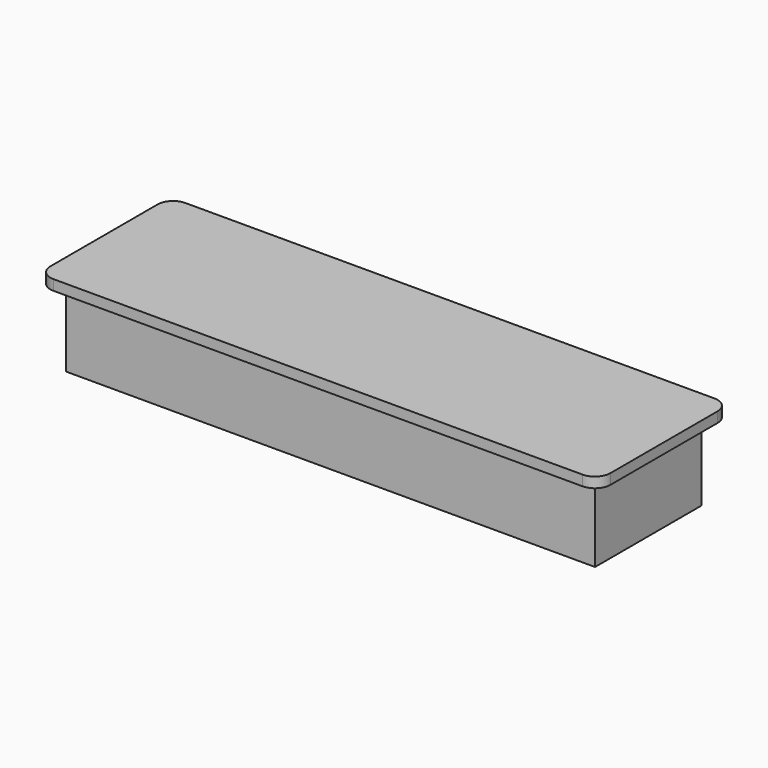
from build123d import *

# Parameters (mm, degrees)
SKETCH_W     = 102.67
SKETCH_H     = 25.87
SKETCH_W_2   = 98.67
SKETCH_H_2   = 21.87
PAD_DEPTH    = 15
PAD001_DEPTH = 2


with BuildPart() as part:
    # Sketch → Pad (new body)
    with BuildSketch(Plane.XY):
        with Locations((51.335, 12.935)):
            Rectangle(SKETCH_W, SKETCH_H)
        with Locations((51.335, 12.935)):
            Rectangle(SKETCH_W_2, SKETCH_H_2, mode=Mode.SUBTRACT)
    extrude(amount=PAD_DEPTH)

    # Sketch001 (on Face10 of Pad) → Pad001 (join)
    with BuildSketch(Plane.XY.offset(15)):
        with BuildLine():
            Line((0, 29), (102.648674, 29))
            ThreePointArc((105.648674, 26), (104.769994, 28.12132), (102.648674, 29))
            Line((105.648674, 26), (105.648674, 0))
            ThreePointArc((102.648674, -3), (104.769994, -2.12132), (105.648674, 0))
            Line((102.648674, -3), (0, -3))
            ThreePointArc((-3, 0), (-2.12132, -2.12132), (0, -3))
            Line((-3, 0), (-3, 26))
            ThreePointArc((0, 29), (-2.12132, 28.12132), (-3, 26))
        make_face()
    extrude(amount=PAD001_DEPTH)


solid = part.part
